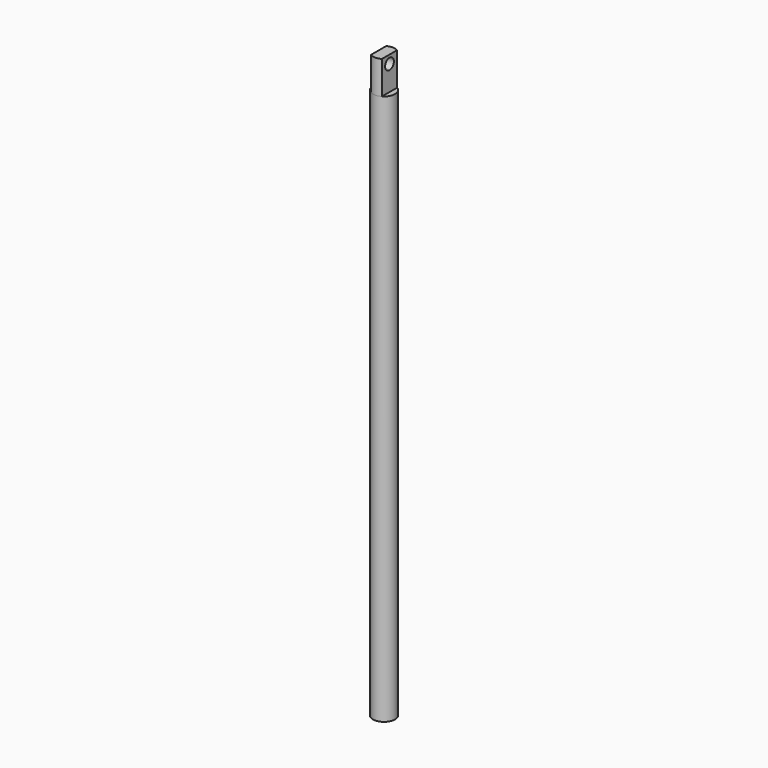
from build123d import *

# Parameters (mm, degrees)
F0_W     = 5
F0_H     = 250
F3_DEPTH = 5.6
F4_DEPTH = 15.001
F5_R     = 2.5
F6_DEPTH = 12.5


with BuildPart() as f1:
    # F0 (on Front) → F1 (revolve)
    with BuildSketch(Plane.XZ):
        with Locations((2.5, 125)):
            Rectangle(F0_W, F0_H)
    revolve(axis=Axis((0, 0, 125), (0, 0, 1)))

    # F2 (on Front) → F3 (join, symmetric)
    with BuildSketch(Plane.XZ):
        Polygon((2.5, 265), (0, 265), (-2.5, 265), (-2.5, 250), (0, 250), (2.5, 250), align=None)
    extrude(amount=F3_DEPTH, both=True)

    # F4 (cut, through all): faces of the model
    f4_faces = [f1.faces().sort_by_distance(p)[0] for p in [
        (0, 5.1676416456, 250),
        (0, -5.1676416456, 250),
    ]]
    extrude(f4_faces, amount=-F4_DEPTH, mode=Mode.SUBTRACT)

    # F5 (on Right) → F6 (cut, symmetric)
    with BuildSketch(Plane.YZ):
        with Locations((0, 261.25)):
            Circle(F5_R)
    extrude(amount=F6_DEPTH, both=True, mode=Mode.SUBTRACT)


solid = f1.part
